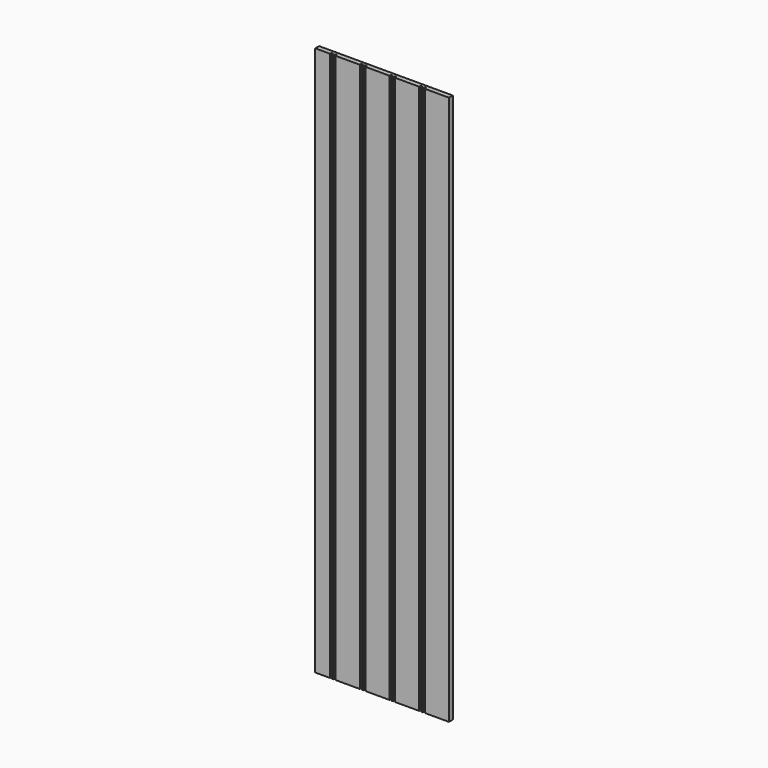
from build123d import *

# Parameters (mm, degrees)
F0_W     = 228.6
F0_H     = 939.8
F1_DEPTH = 8.1788
F2_W     = 3.175
F2_H     = 3.175
F3_DEPTH = 939.801


with BuildPart() as f1:
    # F0 (on Front) → F1 (new body)
    with BuildSketch(Plane.XZ):
        Rectangle(F0_W, F0_H)
    extrude(amount=F1_DEPTH)

    # F2 (on face) → F3 (cut, through all)
    with BuildSketch(Plane.XY.offset(469.9)):
        with Locations((-87.3125, -6.5913)):
            Rectangle(F2_W, F2_H)
        with Locations((-80.9625, -6.5913)):
            Rectangle(F2_W, F2_H)
        with Locations((-36.5125, -6.5913)):
            Rectangle(F2_W, F2_H)
        with Locations((-30.1625, -6.5913)):
            Rectangle(F2_W, F2_H)
        with Locations((14.2875, -6.5913)):
            Rectangle(F2_W, F2_H)
        with Locations((20.6375, -6.5913)):
            Rectangle(F2_W, F2_H)
        with Locations((65.0875, -6.5913)):
            Rectangle(F2_W, F2_H)
        with Locations((71.4375, -6.5913)):
            Rectangle(F2_W, F2_H)
    extrude(amount=-F3_DEPTH, mode=Mode.SUBTRACT)


solid = f1.part
